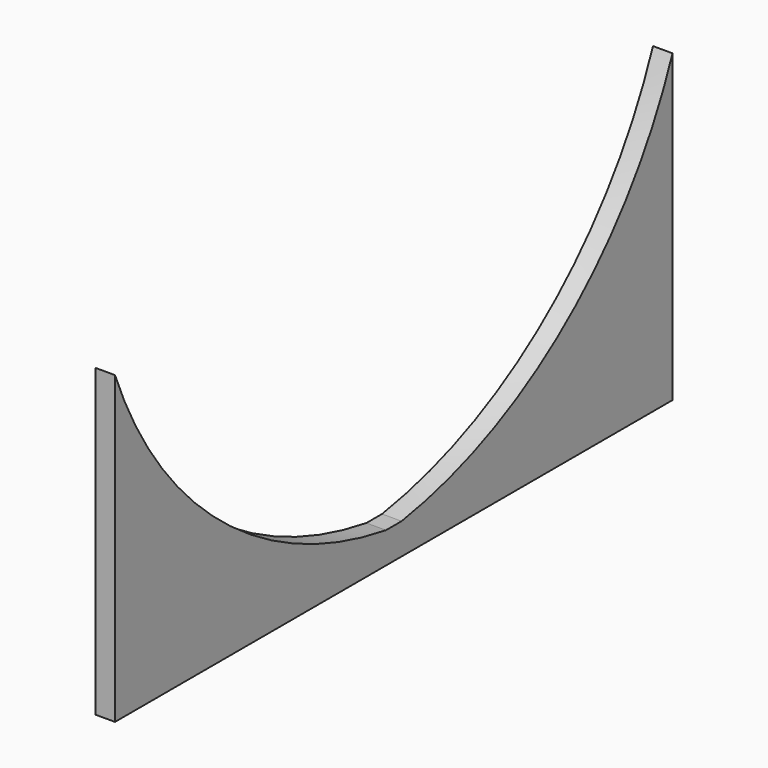
from build123d import *

# Parameters (mm, degrees)
F0_W     = 3.9878
F0_H     = 6.35
F1_DEPTH = 3.9878


with BuildPart() as f1:
    # F0 (on Right) → F1 (new body)
    with BuildSketch(Plane.YZ):
        with BuildLine():
            Line((-71.12, 0), (-1.9939, 0))
            Line((-1.9939, 0), (-1.9939, 6.35))
            ThreePointArc((-1.9939, 6.35), (-44.05962, 25.068144), (-71.12, 62.319044))
            Line((-71.12, 62.319044), (-71.12, 0))
        make_face()
        with Locations((0, 3.175)):
            Rectangle(F0_W, F0_H)
        with BuildLine():
            Line((1.9939, 6.35), (1.9939, 0))
            Line((1.9939, 0), (71.12, 0))
            Line((71.12, 0), (71.12, 62.319044))
            ThreePointArc((71.12, 62.319044), (44.05962, 25.068144), (1.9939, 6.35))
        make_face()
    extrude(amount=F1_DEPTH)


solid = f1.part
